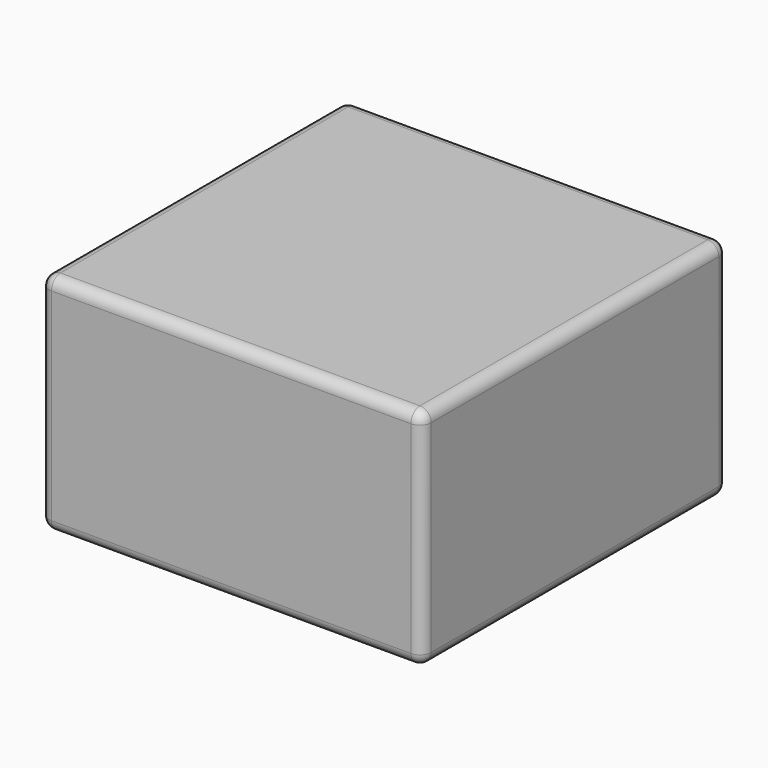
from build123d import *

# Parameters (mm, degrees)
F0_W     = 170
F0_H     = 170
F1_DEPTH = 100
F2_R     = 7.5
F3_DEPTH = 25
F4_R     = 5
F5_R     = 5
F6_W     = 50
F6_H     = 30
F6_W_2   = 30
F6_H_2   = 50
F7_DEPTH = 5


with BuildPart() as f1:
    # F0 (on Top) → F1 (new body)
    with BuildSketch(Plane.XY):
        Rectangle(F0_W, F0_H)
    extrude(amount=F1_DEPTH)

    # F2 (on face) → F3 (cut)
    with BuildSketch(Plane(origin=(0, 0, 0), x_dir=(1, 0, 0), z_dir=(0, 0, -1))):
        Circle(F2_R)
        Polygon((-60, 77.320508), (-75, 68.660254), (-75, 51.339746), (-60, 42.679492), (-45, 51.339746), (-45, 68.660254), align=None)
        Polygon((60, -77.320508), (75, -68.660254), (75, -51.339746), (60, -42.679492), (45, -51.339746), (45, -68.660254), align=None)
    extrude(amount=-F3_DEPTH, mode=Mode.SUBTRACT)

    # F4
    f4_edges = [f1.edges().sort_by_distance(p)[0] for p in [
        (-85, -85, 50),
        (85, -85, 50),
        (85, 85, 50),
        (-85, 85, 50),
    ]]
    fillet(f4_edges, radius=F4_R)

    # F5
    f5_edges = [f1.edges().sort_by_distance(p)[0] for p in [
        (0, -85, 100),
        (85, 0, 0),
    ]]
    fillet(f5_edges, radius=F5_R)

    # F6 (on face) → F7 (join)
    with BuildSketch(Plane(origin=(0, 0, 0), x_dir=(1, 0, 0), z_dir=(0, 0, -1))):
        with Locations((0, 42)):
            Rectangle(F6_W, F6_H)
        with Locations((42, 0)):
            Rectangle(F6_W_2, F6_H_2)
        with Locations((-42, 0)):
            Rectangle(F6_W_2, F6_H_2)
        with Locations((0, -42)):
            Rectangle(F6_W, F6_H)
    extrude(amount=F7_DEPTH)


solid = f1.part
